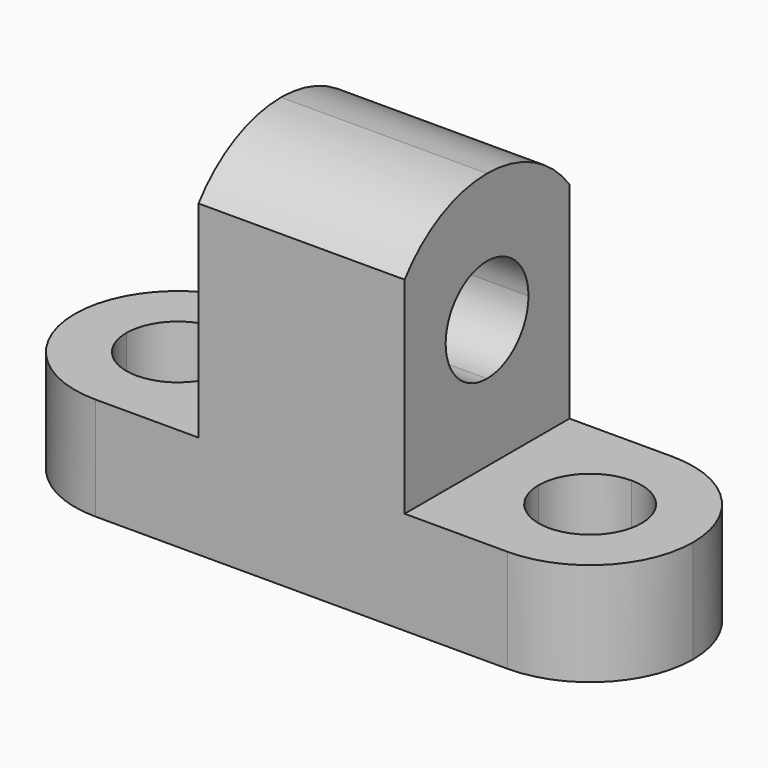
from build123d import *

# Parameters (mm, degrees)
F1_DEPTH = 25.4
F3_DEPTH = 25.4
F5_DEPTH = 25.4
F7_DEPTH = 25.4


with BuildPart() as f1:
    # F0 (on Front) → F1 (new body)
    with BuildSketch(Plane.XZ):
        Polygon((-25.4, 12.7), (-25.4, 0), (50.8, 0), (50.8, 12.7), (25.4, 12.7), (25.4, 44.45), (0, 44.45), (0, 12.7), align=None)
    extrude(amount=F1_DEPTH)

    # F2 (on face) → F3 (cut)
    with BuildSketch(Plane.YZ.offset(25.4)):
        with BuildLine():
            Line((-25.4, 28.575), (-25.4, 38.1))
            ThreePointArc((-25.4, 38.1), (-28.575, 28.575), (-25.4, 19.05))
            Line((-25.4, 19.05), (-25.4, 28.575))
        make_face()
        with BuildLine():
            ThreePointArc((3.175, 28.575), (2.3603473566, 33.5951157855), (0, 38.1))
            Line((0, 38.1), (0, 28.575))
            Line((0, 28.575), (0, 19.05))
            ThreePointArc((0, 19.05), (2.3603473566, 23.5548842145), (3.175, 28.575))
        make_face()
        with BuildLine():
            Line((0, 44.45), (-12.7, 44.45))
            ThreePointArc((-12.7, 44.45), (-5.6004841714, 42.7740316571), (0, 38.1))
            Line((0, 38.1), (0, 44.45))
        make_face()
        with BuildLine():
            ThreePointArc((-25.4, 38.1), (-19.7995158286, 42.7740316571), (-12.7, 44.45))
            Line((-12.7, 44.45), (-25.4, 44.45))
            Line((-25.4, 44.45), (-25.4, 38.1))
        make_face()
        with BuildLine():
            ThreePointArc((-6.3216395999, 28.575), (-8.1898181082, 33.0851818918), (-12.7, 34.9533604001))
            Line((-12.7, 34.9533604001), (-12.7, 28.575))
            Line((-12.7, 28.575), (-6.3216395999, 28.575))
        make_face()
        with BuildLine():
            Line((-12.7, 28.575), (-12.7, 34.9533604001))
            ThreePointArc((-12.7, 34.9533604001), (-17.2101818918, 33.0851818918), (-19.0783604001, 28.575))
            Line((-19.0783604001, 28.575), (-12.7, 28.575))
        make_face()
        with BuildLine():
            Line((-6.3216395999, 28.575), (-12.7, 28.575))
            Line((-12.7, 28.575), (-12.7, 22.1966395999))
            ThreePointArc((-12.7, 22.1966395999), (-8.1898181082, 24.0648181082), (-6.3216395999, 28.575))
        make_face()
        with BuildLine():
            Line((-12.7, 22.1966395999), (-12.7, 28.575))
            Line((-12.7, 28.575), (-19.0783604001, 28.575))
            ThreePointArc((-19.0783604001, 28.575), (-17.2101818918, 24.0648181082), (-12.7, 22.1966395999))
        make_face()
    extrude(amount=-F3_DEPTH, mode=Mode.SUBTRACT)

    # F4 (on face) → F5 (cut)
    with BuildSketch(Plane.XY.offset(12.7)):
        with BuildLine():
            Line((44.45, -12.7), (38.1, -12.7))
            Line((38.1, -12.7), (38.1, -19.05))
            ThreePointArc((38.1, -19.05), (42.5901280605, -17.1901280605), (44.45, -12.7))
        make_face()
        with BuildLine():
            ThreePointArc((44.45, -12.7), (42.5901280605, -8.2098719395), (38.1, -6.35))
            Line((38.1, -6.35), (38.1, -12.7))
            Line((38.1, -12.7), (44.45, -12.7))
        make_face()
        with BuildLine():
            Line((38.1, -12.7), (38.1, -6.35))
            ThreePointArc((38.1, -6.35), (33.6098719395, -8.2098719395), (31.75, -12.7))
            Line((31.75, -12.7), (38.1, -12.7))
        make_face()
        with BuildLine():
            Line((38.1, -19.05), (38.1, -12.7))
            Line((38.1, -12.7), (31.75, -12.7))
            ThreePointArc((31.75, -12.7), (33.6098719395, -17.1901280605), (38.1, -19.05))
        make_face()
        with BuildLine():
            Line((50.8, 0), (38.1, 0))
            ThreePointArc((38.1, 0), (47.0802561211, -3.7197438789), (50.8, -12.7))
            Line((50.8, -12.7), (50.8, 0))
        make_face()
        with BuildLine():
            Line((50.8, -25.4), (50.8, -12.7))
            ThreePointArc((50.8, -12.7), (47.0802561211, -21.6802561211), (38.1, -25.4))
            Line((38.1, -25.4), (50.8, -25.4))
        make_face()
    extrude(amount=-F5_DEPTH, mode=Mode.SUBTRACT)

    # F6 (on face) → F7 (cut)
    with BuildSketch(Plane.XY.offset(12.7)):
        with BuildLine():
            Line((-6.35, -12.7), (-12.7, -12.7))
            Line((-12.7, -12.7), (-12.7, -19.05))
            ThreePointArc((-12.7, -19.05), (-8.2098719395, -17.1901280605), (-6.35, -12.7))
        make_face()
        with BuildLine():
            Line((-12.7, -19.05), (-12.7, -12.7))
            Line((-12.7, -12.7), (-19.05, -12.7))
            ThreePointArc((-19.05, -12.7), (-17.1901280605, -17.1901280605), (-12.7, -19.05))
        make_face()
        with BuildLine():
            Line((-12.7, -12.7), (-12.7, -6.35))
            ThreePointArc((-12.7, -6.35), (-17.1901280605, -8.2098719395), (-19.05, -12.7))
            Line((-19.05, -12.7), (-12.7, -12.7))
        make_face()
        with BuildLine():
            ThreePointArc((-6.35, -12.7), (-8.2098719395, -8.2098719395), (-12.7, -6.35))
            Line((-12.7, -6.35), (-12.7, -12.7))
            Line((-12.7, -12.7), (-6.35, -12.7))
        make_face()
        with BuildLine():
            ThreePointArc((-12.7, -25.4), (-21.6802561211, -21.6802561211), (-25.4, -12.7))
            Line((-25.4, -12.7), (-25.4, -25.4))
            Line((-25.4, -25.4), (-12.7, -25.4))
        make_face()
        with BuildLine():
            ThreePointArc((-25.4, -12.7), (-21.6802561211, -3.7197438789), (-12.7, 0))
            Line((-12.7, 0), (-25.4, 0))
            Line((-25.4, 0), (-25.4, -12.7))
        make_face()
    extrude(amount=-F7_DEPTH, mode=Mode.SUBTRACT)


solid = f1.part
